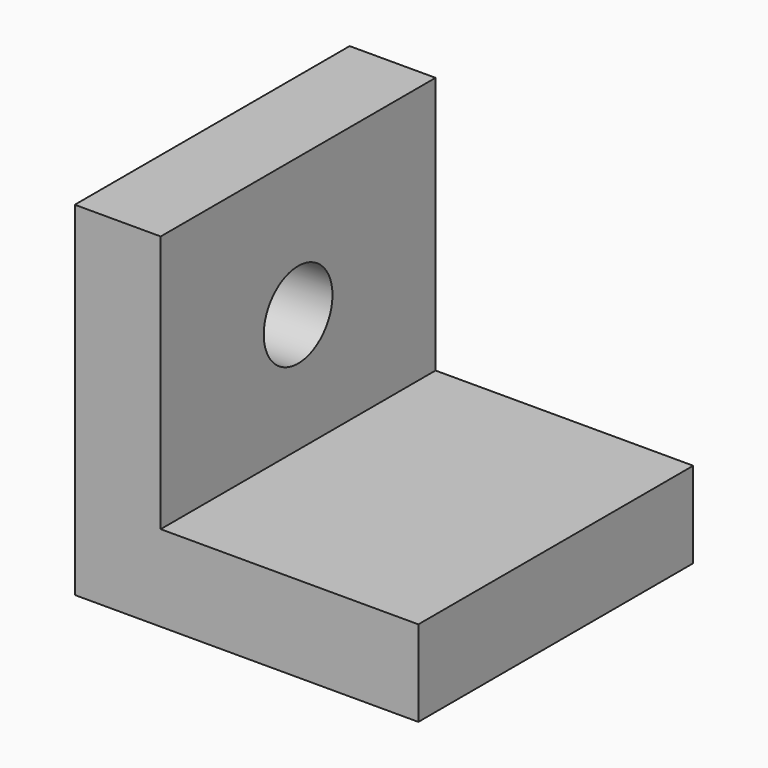
from build123d import *

# Parameters (mm, degrees)
F1_DEPTH = 25.4
F2_R     = 6.35
F3_DEPTH = 12.701


with BuildPart() as f1:
    # F0 (on Front) → F1 (new body, symmetric)
    with BuildSketch(Plane.XZ):
        Polygon((-61.487873, 23.324125), (-74.187873, 23.324125), (-74.187873, -27.475875), (-23.387873, -27.475875), (-23.387873, -14.775875), (-61.487873, -14.775875), align=None)
    extrude(amount=F1_DEPTH, both=True)

    # F2 (on face) → F3 (cut, through all)
    with BuildSketch(Plane.YZ.offset(-61.487873)):
        with Locations((0, 2.804542)):
            Circle(F2_R)
    extrude(amount=-F3_DEPTH, mode=Mode.SUBTRACT)


solid = f1.part
